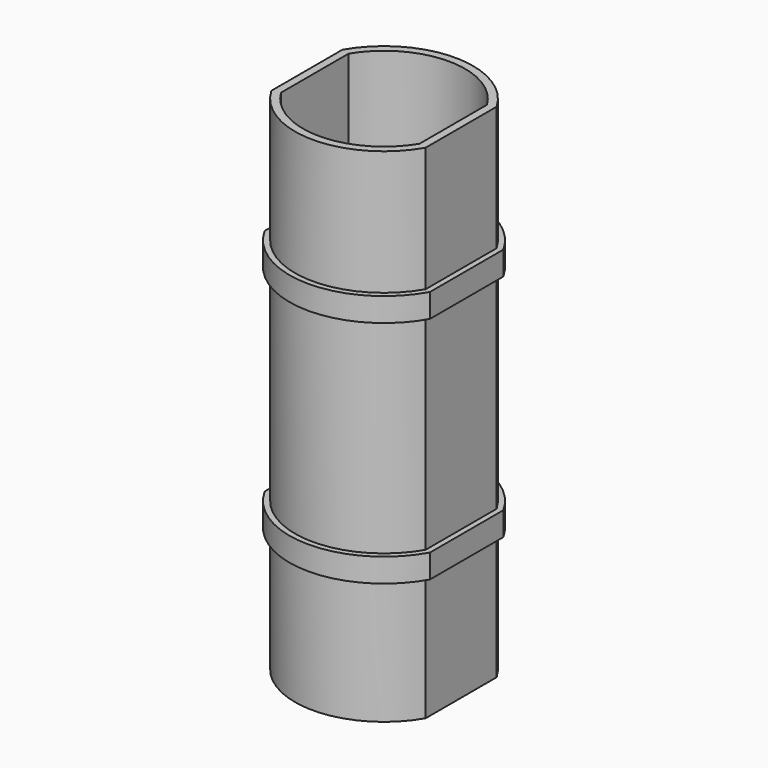
from build123d import *

# Parameters (mm, degrees)
F1_DEPTH = 63.5
F4_DEPTH = 16
F5_DEPTH = 13


with BuildPart() as f1:
    # F0 (on Top) → F1 (new body)
    with BuildSketch(Plane.XY):
        with BuildLine():
            Line((-9.75, 5.612486), (-9.75, -5.612486))
            ThreePointArc((-9.75, -5.612486), (0, -11.25), (9.75, -5.612486))
            Line((9.75, -5.612486), (9.75, 5.612486))
            ThreePointArc((9.75, 5.612486), (0, 11.25), (-9.75, 5.612486))
        make_face()
        with BuildLine():
            ThreePointArc((8.75, -5.338539), (0, -10.25), (-8.75, -5.338539))
            Line((-8.75, -5.338539), (-8.75, 5.338539))
            ThreePointArc((-8.75, 5.338539), (0, 10.25), (8.75, 5.338539))
            Line((8.75, 5.338539), (8.75, -5.338539))
        make_face(mode=Mode.SUBTRACT)
    extrude(amount=F1_DEPTH)

    # F3 (on mid) → F4 (join, symmetric)
    with BuildSketch(Plane.XY.offset(31.75)):
        with BuildLine():
            Line((10.45, -5.796551), (10.45, 5.796551))
            ThreePointArc((10.45, 5.796551), (0, 11.95), (-10.45, 5.796551))
            Line((-10.45, 5.796551), (-10.45, -5.796551))
            ThreePointArc((-10.45, -5.796551), (0, -11.95), (10.45, -5.796551))
        make_face()
        with BuildLine():
            ThreePointArc((-9.75, 5.612486), (0, 11.25), (9.75, 5.612486))
            Line((9.75, 5.612486), (9.75, -5.612486))
            ThreePointArc((9.75, -5.612486), (0, -11.25), (-9.75, -5.612486))
            Line((-9.75, -5.612486), (-9.75, 5.612486))
        make_face(mode=Mode.SUBTRACT)
    extrude(amount=F4_DEPTH, both=True)

    # F3 (on mid) → F5 (cut, symmetric)
    with BuildSketch(Plane.XY.offset(31.75)):
        with BuildLine():
            Line((10.45, -5.796551), (10.45, 5.796551))
            ThreePointArc((10.45, 5.796551), (0, 11.95), (-10.45, 5.796551))
            Line((-10.45, 5.796551), (-10.45, -5.796551))
            ThreePointArc((-10.45, -5.796551), (0, -11.95), (10.45, -5.796551))
        make_face()
        with BuildLine():
            ThreePointArc((-9.75, 5.612486), (0, 11.25), (9.75, 5.612486))
            Line((9.75, 5.612486), (9.75, -5.612486))
            ThreePointArc((9.75, -5.612486), (0, -11.25), (-9.75, -5.612486))
            Line((-9.75, -5.612486), (-9.75, 5.612486))
        make_face(mode=Mode.SUBTRACT)
    extrude(amount=F5_DEPTH, both=True, mode=Mode.SUBTRACT)


solid = f1.part
